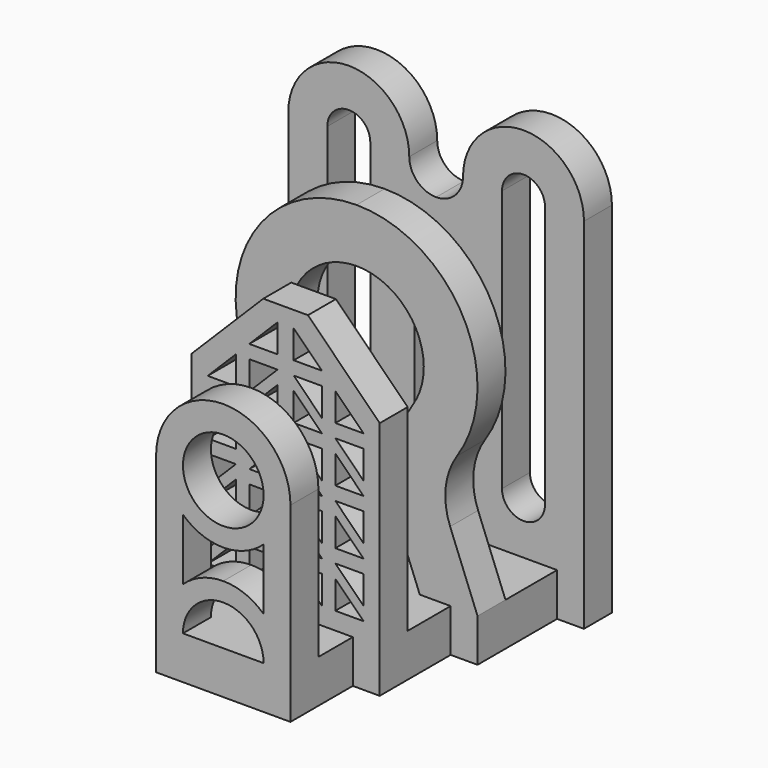
from build123d import *

# Parameters (mm, degrees)
F0_R      = 7.5
F1_DEPTH  = 6.5
F4_DEPTH  = 6.5
F7_DEPTH  = 6.5
F10_DEPTH = 6.5
F12_DEPTH = 8


with BuildPart() as f1:
    # F0 (on Front) → F1 (new body)
    with BuildSketch(Plane.XZ):
        with BuildLine():
            Line((-12.5, 27.5), (-12.5, 0))
            Line((-12.5, 0), (-7.5, 0))
            ThreePointArc((-7.5, 0), (0, 7.5), (7.5, 0))
            Line((7.5, 0), (12.5, 0))
            Line((12.5, 0), (12.5, 27.5))
            ThreePointArc((12.5, 27.5), (0, 40), (-12.5, 27.5))
        make_face()
        with BuildLine():
            Line((-7.5, 13.75), (-7.5, 19.4532615303))
            ThreePointArc((-7.5, 19.4532615303), (-4.0302528973, 17.2649102797), (0, 16.5))
            ThreePointArc((0, 16.5), (4.0302528973, 17.2649102797), (7.5, 19.4532615303))
            Line((7.5, 19.4532615303), (7.5, 13.75))
            Line((7.5, 13.75), (7.5, 8.0467384697))
            ThreePointArc((7.5, 8.0467384697), (4.0302528973, 10.2350897203), (0, 11))
            ThreePointArc((0, 11), (-4.0302528973, 10.2350897203), (-7.5, 8.0467384697))
            Line((-7.5, 8.0467384697), (-7.5, 13.75))
        make_face(mode=Mode.SUBTRACT)
        with Locations((0, 27.5)):
            Circle(F0_R, mode=Mode.SUBTRACT)
    extrude(amount=-F1_DEPTH)



with BuildPart() as f4:
    # F3 (on offset) → F4 (new body)
    with BuildSketch(Plane(origin=(0, 14.5, 0), x_dir=(-1, 0, 0), z_dir=(0, 1, 0))):
        Polygon((-17.5, 0), (17.5, 0), (17.5, 36.6568542495), (4.1568542495, 50), (0, 50), (-4.1568542495, 50), (-17.5, 36.6568542495), align=None)
        Polygon((-14.5, 3.25), (-9.25, 8.5), (-9.25, 3.25), align=None, mode=Mode.SUBTRACT)
        Polygon((-14.5, 11), (-9.25, 11), (-14.5, 5.75), align=None, mode=Mode.SUBTRACT)
        Polygon((-6.75, 3.25), (-6.75, 8.5), (-1.5, 8.5), align=None, mode=Mode.SUBTRACT)
        Polygon((-14.5, 13.5), (-9.25, 18.75), (-9.25, 13.5), align=None, mode=Mode.SUBTRACT)
        Polygon((-14.5, 21.25), (-9.25, 21.25), (-14.5, 16), align=None, mode=Mode.SUBTRACT)
        Polygon((-6.75, 11), (-1.5, 16.25), (-1.5, 11), align=None, mode=Mode.SUBTRACT)
        Polygon((-6.75, 13.5), (-6.75, 18.75), (-1.5, 18.75), align=None, mode=Mode.SUBTRACT)
        Polygon((-6.75, 21.25), (-1.5, 26.5), (-1.5, 21.25), align=None, mode=Mode.SUBTRACT)
        Polygon((6.75, 8.5), (6.75, 3.25), (1.5, 8.5), align=None, mode=Mode.SUBTRACT)
        Polygon((9.25, 8.5), (14.5, 3.25), (9.25, 3.25), align=None, mode=Mode.SUBTRACT)
        Polygon((14.5, 5.75), (9.25, 11), (14.5, 11), align=None, mode=Mode.SUBTRACT)
        Polygon((1.5, 11), (1.5, 16.25), (6.75, 11), align=None, mode=Mode.SUBTRACT)
        Polygon((1.5, 18.75), (6.75, 18.75), (6.75, 13.5), align=None, mode=Mode.SUBTRACT)
        Polygon((1.5, 21.25), (1.5, 26.5), (6.75, 21.25), align=None, mode=Mode.SUBTRACT)
        Polygon((9.25, 13.5), (9.25, 18.75), (14.5, 13.5), align=None, mode=Mode.SUBTRACT)
        Polygon((14.5, 16), (9.25, 21.25), (14.5, 21.25), align=None, mode=Mode.SUBTRACT)
        Polygon((-14.5, 23.75), (-9.25, 29), (-9.25, 23.75), align=None, mode=Mode.SUBTRACT)
        Polygon((-14.5, 31.5), (-9.25, 31.5), (-14.5, 26.25), align=None, mode=Mode.SUBTRACT)
        Polygon((-14.5, 34), (-9.25, 39.25), (-9.25, 34), align=None, mode=Mode.SUBTRACT)
        Polygon((-6.75, 23.75), (-6.75, 29), (-1.5, 29), align=None, mode=Mode.SUBTRACT)
        Polygon((-6.75, 31.5), (-1.5, 36.75), (-1.5, 31.5), align=None, mode=Mode.SUBTRACT)
        Polygon((-6.75, 34), (-6.75, 39.25), (-1.5, 39.25), align=None, mode=Mode.SUBTRACT)
        Polygon((-1.5, 41.75), (-6.75, 41.75), (-1.5, 47), align=None, mode=Mode.SUBTRACT)
        Polygon((1.5, 29), (6.75, 29), (6.75, 23.75), align=None, mode=Mode.SUBTRACT)
        Polygon((1.5, 31.5), (1.5, 36.75), (6.75, 31.5), align=None, mode=Mode.SUBTRACT)
        Polygon((1.5, 39.25), (6.75, 39.25), (6.75, 34), align=None, mode=Mode.SUBTRACT)
        Polygon((9.25, 23.75), (9.25, 29), (14.5, 23.75), align=None, mode=Mode.SUBTRACT)
        Polygon((14.5, 26.25), (9.25, 31.5), (14.5, 31.5), align=None, mode=Mode.SUBTRACT)
        Polygon((9.25, 34), (9.25, 39.25), (14.5, 34), align=None, mode=Mode.SUBTRACT)
        Polygon((1.5, 41.75), (1.5, 47), (6.75, 41.75), align=None, mode=Mode.SUBTRACT)
    extrude(amount=F4_DEPTH)


with BuildPart() as f7:
    # F6 (on offset) → F7 (new body)
    with BuildSketch(Plane(origin=(0, 31, 0), x_dir=(-1, 0, 0), z_dir=(0, 1, 0))):
        with BuildLine():
            ThreePointArc((18.6993614774, 24.9866519133), (19.8469182992, 48.099520462), (0, 60))
            ThreePointArc((0, 60), (-19.8469182992, 48.099520462), (-18.6993614774, 24.9866519133))
            ThreePointArc((-18.6993614774, 24.9866519133), (-16.5755735728, 19.1462143394), (-17.4007867797, 12.9866519133))
            Line((-17.4007867797, 12.9866519133), (-22.5, 0))
            Line((-22.5, 0), (-11.756749629, 0))
            Line((-11.756749629, 0), (-8.0926168547, 9.3317958769))
            ThreePointArc((-8.0926168547, 9.3317958769), (-6.6336162435, 20.2220788589), (-10.3885341541, 30.5481399518))
            ThreePointArc((-10.3885341541, 30.5481399518), (-11.0260657218, 43.3886224789), (0, 50))
            ThreePointArc((0, 50), (11.0260657218, 43.3886224789), (10.3885341541, 30.5481399518))
            ThreePointArc((10.3885341541, 30.5481399518), (6.6336162435, 20.2220788589), (8.0926168547, 9.3317958769))
            Line((8.0926168547, 9.3317958769), (11.756749629, 0))
            Line((11.756749629, 0), (22.5, 0))
            Line((22.5, 0), (17.4007867797, 12.9866519133))
            ThreePointArc((17.4007867797, 12.9866519133), (16.5755735728, 19.1462143394), (18.6993614774, 24.9866519133))
        make_face()
    extrude(amount=F7_DEPTH)


with BuildPart() as f10:
    # F9 (on offset) → F10 (new body)
    with BuildSketch(Plane(origin=(0, 49.5, 0), x_dir=(-1, 0, 0), z_dir=(0, 1, 0))):
        with BuildLine():
            Line((-27.5, 0), (27.5, 0))
            Line((27.5, 0), (27.5, 58.75))
            ThreePointArc((27.5, 58.75), (16.25, 70), (5, 58.75))
            ThreePointArc((5, 58.75), (3.5355339059, 55.2144660941), (0, 53.75))
            ThreePointArc((0, 53.75), (-3.5355339059, 55.2144660941), (-5, 58.75))
            ThreePointArc((-5, 58.75), (-16.25, 70), (-27.5, 58.75))
            Line((-27.5, 58.75), (-27.5, 0))
        make_face()
        with BuildLine():
            ThreePointArc((-20.25, 58.75), (-16.25, 62.75), (-12.25, 58.75))
            Line((-12.25, 58.75), (-12.25, 10))
            ThreePointArc((-12.25, 10), (-16.25, 6), (-20.25, 10))
            Line((-20.25, 10), (-20.25, 58.75))
        make_face(mode=Mode.SUBTRACT)
        with BuildLine():
            ThreePointArc((-4, 43.75), (-2.8284271247, 46.5784271247), (0, 47.75))
            ThreePointArc((0, 47.75), (2.8284271247, 46.5784271247), (4, 43.75))
            Line((4, 43.75), (4, 10))
            ThreePointArc((4, 10), (2.8284271247, 7.1715728753), (0, 6))
            ThreePointArc((0, 6), (-2.8284271247, 7.1715728753), (-4, 10))
            Line((-4, 10), (-4, 43.75))
        make_face(mode=Mode.SUBTRACT)
        with BuildLine():
            ThreePointArc((12.25, 58.75), (16.25, 62.75), (20.25, 58.75))
            Line((20.25, 58.75), (20.25, 10))
            ThreePointArc((20.25, 10), (16.25, 6), (12.25, 10))
            Line((12.25, 10), (12.25, 58.75))
        make_face(mode=Mode.SUBTRACT)
    extrude(amount=F10_DEPTH)


with BuildPart() as f1_1:
    add(f1.part)

    add(f4.part)  # F12 merges F4

    add(f7.part)  # F12 merges F7

    add(f10.part)  # F12 merges F10
    # F11 (on Top) → F12 (join)
    with BuildSketch(Plane.XY):
        Polygon((-12.5, 0), (0, 0), (12.5, 0), (12.5, 6.5), (12.5, 14.5), (17.5, 14.5), (17.5, 21), (17.5, 31), (22.5, 31), (22.5, 37.5), (22.5, 49.5), (27.5, 49.5), (27.5, 56), (0, 56), (-27.5, 56), (-27.5, 49.5), (-22.5, 49.5), (-22.5, 37.5), (-22.5, 31), (-17.5, 31), (-17.5, 21), (-17.5, 14.5), (-12.5, 14.5), (-12.5, 6.5), align=None)
    extrude(amount=-F12_DEPTH)


solid = f1_1.part
